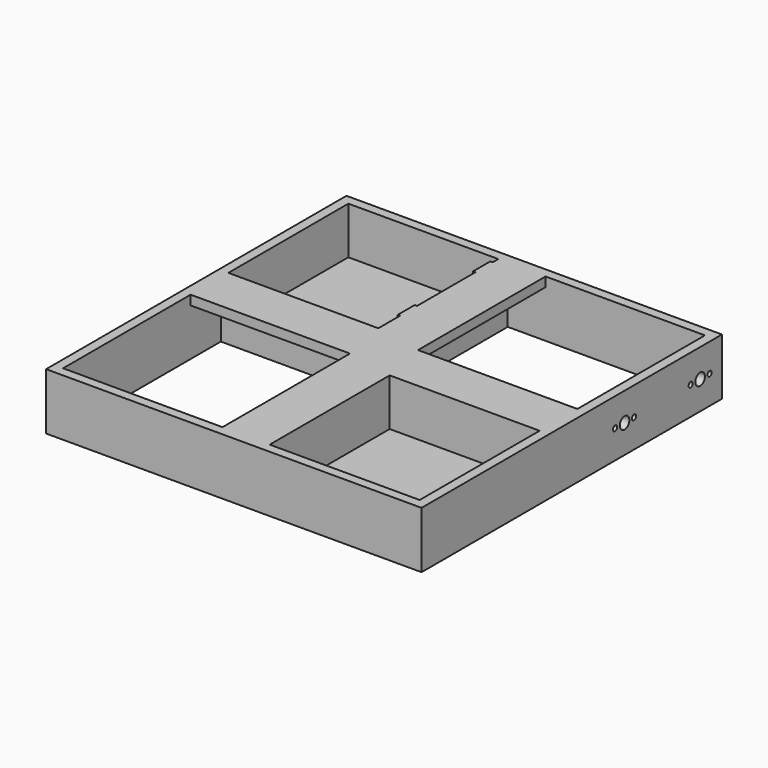
from build123d import *

# Parameters (mm, degrees)
F0_W      = 252.4125
F0_H      = 252.4125
F0_W_2    = 100.80625
F0_H_2    = 100.80625
F1_DEPTH  = 25.4
F2_W      = 100.80625
F2_H      = 100.80625
F3_DEPTH  = 6.35
F4_R      = 4
F4_R_2    = 1.7272
F5_DEPTH  = 6.35
F6_W      = 14.3500094
F6_H      = 31.75
F7_DEPTH  = 1.5875
F8_R      = 4
F9_DEPTH  = 6.35
F10_W     = 252.4125
F10_H     = 252.4125
F10_W_2   = 100.80625
F10_H_2   = 100.80625
F10_W_3   = 1.5875
F10_H_3   = 14.3500094
F11_DEPTH = 6.35


with BuildPart() as f1:
    # F0 (on Top) → F1 (new body)
    with BuildSketch(Plane.XY):
        Rectangle(F0_W, F0_H)
        Polygon((12.7, -12.7), (12.7, -119.85625), (-119.85625, -119.85625), (-119.85625, 12.7), (-12.7, 12.7), (-12.7, 119.85625), (119.85625, 119.85625), (119.85625, -12.7), align=None, mode=Mode.SUBTRACT)
        with Locations((69.453125, -69.453125)):
            Rectangle(F0_W_2, F0_H_2, mode=Mode.SUBTRACT)
        with Locations((-69.453125, 69.453125)):
            Rectangle(F0_W_2, F0_H_2, mode=Mode.SUBTRACT)
    extrude(amount=F1_DEPTH)

    # F2 (on face) → F3 (join)
    with BuildSketch(Plane.XY.offset(25.4)):
        Polygon((126.20625, -126.20625), (126.20625, 12.7), (119.85625, 12.7), (119.85625, -12.7), (12.7, -12.7), (12.7, -119.85625), (-12.7, -119.85625), (-12.7, -126.20625), align=None)
        with Locations((69.453125, -69.453125)):
            Rectangle(F2_W, F2_H, mode=Mode.SUBTRACT)
        Polygon((12.7, 126.20625), (-126.20625, 126.20625), (-126.20625, -12.7), (-119.85625, -12.7), (-119.85625, 12.7), (-12.7, 12.7), (-12.7, 119.85625), (12.7, 119.85625), align=None)
        with Locations((-69.453125, 69.453125)):
            Rectangle(F2_W, F2_H, mode=Mode.SUBTRACT)
        Polygon((12.7, 12.7), (12.7, 119.85625), (-12.7, 119.85625), (-12.7, 12.7), (-119.85625, 12.7), (-119.85625, -12.7), (-12.7, -12.7), (-12.7, -119.85625), (12.7, -119.85625), (12.7, -12.7), (119.85625, -12.7), (119.85625, 12.7), align=None)
        Polygon((-119.85625, -12.7), (-126.20625, -12.7), (-126.20625, -126.20625), (-12.7, -126.20625), (-12.7, -119.85625), (-119.85625, -119.85625), align=None)
        Polygon((126.20625, 126.20625), (12.7, 126.20625), (12.7, 119.85625), (119.85625, 119.85625), (119.85625, 12.7), (126.20625, 12.7), align=None)
    extrude(amount=F3_DEPTH)

    # F4 (on face) → F5 (cut, through all)
    with BuildSketch(Plane.YZ.offset(126.20625)):
        with Locations((107.91875, 12.7)):
            Circle(F4_R)
        with Locations((115.8875, 12.7)):
            Circle(F4_R_2)
        with Locations((99.95, 12.7)):
            Circle(F4_R_2)
        with Locations((44.41875, 12.7)):
            Circle(F4_R)
        with Locations((52.3875, 12.7)):
            Circle(F4_R_2)
        with Locations((36.45, 12.7)):
            Circle(F4_R_2)
    extrude(amount=-F5_DEPTH, mode=Mode.SUBTRACT)

    # F6 (on face) → F7 (join)
    with BuildSketch(Plane(origin=(-19.05, 0, 0), x_dir=(0, -1, 0), z_dir=(-1, 0, 0))):
        with Locations((-44.41875, 15.875)):
            Rectangle(F6_W, F6_H)
        with Locations((-107.91875, 15.875)):
            Rectangle(F6_W, F6_H)
        with Locations((-44.41875, 15.875)):
            Rectangle(F6_W, F6_H)
    extrude(amount=F7_DEPTH)

    # F8 (on face) → F9 (cut, through all)
    with BuildSketch(Plane.YZ.offset(-12.7)):
        with Locations((44.41875, 12.7)):
            Circle(F8_R)
        with Locations((107.91875, 12.7)):
            Circle(F8_R)
    extrude(amount=-F9_DEPTH, mode=Mode.SUBTRACT)

    # F10 (on face) → F11 (join)
    with BuildSketch(Plane(origin=(0, 0, 0), x_dir=(1, 0, 0), z_dir=(0, 0, -1))):
        Rectangle(F10_W, F10_H)
        Polygon((-119.85625, -19.05), (-19.05, -19.05), (-19.05, -37.2437453), (-19.05, -51.5937547), (-19.05, -100.7437453), (-19.05, -115.0937547), (-19.05, -119.85625), (-119.85625, -119.85625), align=None, mode=Mode.SUBTRACT)
        Polygon((-119.85625, 119.85625), (12.7, 119.85625), (12.7, 12.7), (119.85625, 12.7), (119.85625, -119.85625), (-12.7, -119.85625), (-12.7, -12.7), (-119.85625, -12.7), align=None, mode=Mode.SUBTRACT)
        with Locations((69.453125, 69.453125)):
            Rectangle(F10_W_2, F10_H_2, mode=Mode.SUBTRACT)
        with Locations((69.453125, 69.453125)):
            Rectangle(F10_W_2, F10_H_2)
        Polygon((-19.05, -37.2437453), (-19.05, -19.05), (-119.85625, -19.05), (-119.85625, -119.85625), (-19.05, -119.85625), (-19.05, -115.0937547), (-20.6375, -115.0937547), (-20.6375, -100.7437453), (-19.05, -100.7437453), (-19.05, -51.5937547), (-20.6375, -51.5937547), (-20.6375, -37.2437453), align=None)
        with Locations((-19.84375, -44.41875)):
            Rectangle(F10_W_3, F10_H_3)
        with Locations((-19.84375, -107.91875)):
            Rectangle(F10_W_3, F10_H_3)
    extrude(amount=F11_DEPTH)


solid = f1.part
